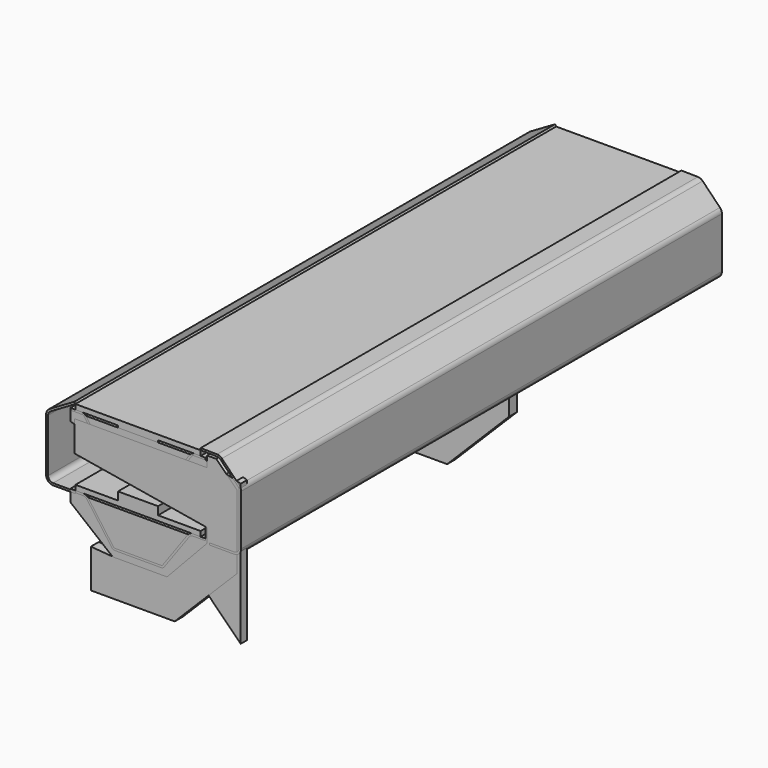
from build123d import *

# Parameters (mm, degrees)
F1_DEPTH  = 600
F2_W      = 40
F2_H      = 8
F3_DEPTH  = 600
F5_DEPTH  = 8
F7_DEPTH  = 600
F9_DEPTH  = 600
F11_DEPTH = 10
F14_DEPTH = 10
F16_DEPTH = 600
F18_DEPTH = 600


with BuildPart() as f1:
    # F0 (on Front) → F1 (new body)
    with BuildSketch(Plane.XZ):
        Polygon((62.5, -2.5), (62.5, 2.5), (-62.5, 2.5), (-62.5, -2.5), (-20, -2.5), (-20, -10.5), (20, -10.5), (20, -2.5), align=None)
    extrude(amount=F1_DEPTH)


with BuildPart() as f3:
    # F2 (on face) → F3 (new body)
    with BuildSketch(Plane.XZ.offset(600)):
        Polygon((62.5, -73.5), (62.5, -68.5), (20, -68.5), (-20, -68.5), (-62.5, -68.5), (-62.5, -73.5), align=None)
        with Locations((0, -64.5)):
            Rectangle(F2_W, F2_H)
    extrude(amount=-F3_DEPTH)


with BuildPart() as f5:
    # F4 (on face) → F5 (new body)
    with BuildSketch(Plane.XZ.offset(600)):
        Polygon((67.5, -4.5), (-67.5, -4.5), (-67.5, -14.5), (67.5, -50.6731409782), (67.5, -75.5), (-67.5, -75.5), (-67.5, -85.5), (17.6471862576, -154.6233937864), (60.0735931288, -112.1969869152), (102.5, -154.6233937864), (102.5, -13.8782217351), align=None)
    extrude(amount=-F5_DEPTH)


with BuildPart() as f7:
    # F6 (on face) → F7 (new body)
    with BuildSketch(Plane.XZ.offset(600)):
        with BuildLine():
            Line((-62.5, -73.5), (-67.5, -73.5))
            Line((-67.5, -73.5), (-67.5, -75.5))
            Line((-67.5, -75.5), (-54.5428234244, -75.5))
            ThreePointArc((-54.5428234244, -75.5), (-52.7235239113, -75.937676421), (-51.302356648, -77.1549253592))
            Line((-51.302356648, -77.1549253592), (-26.197643352, -111.8450746408))
            ThreePointArc((-26.197643352, -111.8450746408), (-24.7764760887, -113.062323579), (-22.9571765756, -113.5))
            Line((-22.9571765756, -113.5), (0, -113.5))
            Line((0, -113.5), (22.9571765756, -113.5))
            ThreePointArc((22.9571765756, -113.5), (24.7764760887, -113.062323579), (26.197643352, -111.8450746408))
            Line((26.197643352, -111.8450746408), (51.302356648, -77.1549253592))
            ThreePointArc((51.302356648, -77.1549253592), (52.7235239113, -75.937676421), (54.5428234244, -75.5))
            Line((54.5428234244, -75.5), (67.5, -75.5))
            Line((67.5, -75.5), (67.5, -73.5))
            Line((67.5, -73.5), (62.5, -73.5))
            Line((62.5, -73.5), (54.5428234244, -73.5))
            ThreePointArc((54.5428234244, -73.5), (51.8138741547, -74.1565146315), (49.6821232598, -75.9823880388))
            Line((49.6821232598, -75.9823880388), (23.9785882878, -111.5))
            Line((23.9785882878, -111.5), (0, -111.5))
            Line((0, -111.5), (-23.9785882878, -111.5))
            Line((-23.9785882878, -111.5), (-49.6821232598, -75.9823880388))
            ThreePointArc((-49.6821232598, -75.9823880388), (-51.8138741547, -74.1565146315), (-54.5428234244, -73.5))
            Line((-54.5428234244, -73.5), (-62.5, -73.5))
        make_face()
    extrude(amount=-F7_DEPTH)


with BuildPart() as f9:
    # F8 (on face) → F9 (new body)
    with BuildSketch(Plane.XZ.offset(600)):
        with BuildLine():
            Line((-56.0380938509, -2.5), (-67.5, -2.5))
            Line((-67.5, -2.5), (-67.5, -4.5))
            Line((-67.5, -4.5), (-54.5059762826, -4.5))
            Line((-54.5059762826, -4.5), (-39.9571153066, -24.6038806214))
            ThreePointArc((-39.9571153066, -24.6038806214), (-37.4700725958, -26.7340662633), (-34.2862984479, -27.5))
            Line((-34.2862984479, -27.5), (0, -27.5))
            Line((0, -27.5), (34.2862984479, -27.5))
            ThreePointArc((34.2862984479, -27.5), (37.4700725958, -26.7340662633), (39.9571153066, -24.6038806214))
            Line((39.9571153066, -24.6038806214), (54.5059762826, -4.5))
            Line((54.5059762826, -4.5), (67.5, -4.5))
            Line((67.5, -4.5), (67.5, -2.5))
            Line((67.5, -2.5), (56.0380938509, -2.5))
            ThreePointArc((56.0380938509, -2.5), (53.7639694596, -3.0470955262), (51.9875103804, -4.568656699))
            Line((51.9875103804, -4.568656699), (38.3368819184, -23.431343301))
            ThreePointArc((38.3368819184, -23.431343301), (36.5604228393, -24.9529044738), (34.2862984479, -25.5))
            Line((34.2862984479, -25.5), (0, -25.5))
            Line((0, -25.5), (-34.2862984479, -25.5))
            ThreePointArc((-34.2862984479, -25.5), (-36.5604228393, -24.9529044738), (-38.3368819184, -23.431343301))
            Line((-38.3368819184, -23.431343301), (-51.9875103804, -4.568656699))
            ThreePointArc((-51.9875103804, -4.568656699), (-53.7639694596, -3.0470955262), (-56.0380938509, -2.5))
        make_face()
    extrude(amount=-F9_DEPTH)


with BuildPart() as f11:
    # F10 (on face) → F11 (new body)
    with BuildSketch(Plane.XZ.offset(600)):
        Polygon((-63.5848790407, -41.2441077431), (69.0678358078, -63.3979870606), (69.0678358078, -77.0888211463), (28.9685007621, -119.7190688296), (-23.246947673, -119.7190688296), (-47.1364110708, -117.8128936633), (-47.1364110708, -156.352830978), (36.653718192, -156.352830978), (98.609762815, -94.3228504545), (98.609762815, -20.4974586044), (78.1123042107, 0), (68.9577640522, 0), (68.7347809, -10.709456478), (-63.5848790407, -10.709456478), align=None)
    extrude(amount=-F11_DEPTH)


with BuildPart() as f14:
    # F13 (on offset) → F14 (new body)
    with BuildSketch(Plane.XZ.offset(250)):
        Polygon((68.9577640522, 0), (68.7347809, -10.709456478), (-63.5848790407, -10.709456478), (-63.5848790407, -41.2441077431), (69.0678358078, -63.3979870606), (69.0678358078, -77.0888211463), (28.9685007621, -119.7190688296), (-23.246947673, -119.7190688296), (-47.1364110708, -117.8128936633), (-47.1364110708, -156.352830978), (36.653718192, -156.352830978), (98.609762815, -94.3228504545), (98.609762815, -20.4974586044), (78.1123042107, 0), align=None)
    extrude(amount=F14_DEPTH)


with BuildPart() as f16:
    # F15 (on face) → F16 (new body)
    with BuildSketch(Plane.XZ.offset(600)):
        with BuildLine():
            Line((62.5276616535, 4.4998086991), (62.5, 2.5))
            Line((62.5, 2.5), (78.8424637756, 2.2739485929))
            ThreePointArc((78.8424637756, 2.2739485929), (80.7472558461, 1.8682853958), (82.3525769484, 0.7656795642))
            Line((82.3525769484, 0.7656795642), (99.5723887191, -16.8882441871))
            ThreePointArc((99.5723887191, -16.8882441871), (100.624338128, -18.494866509), (100.9931214124, -20.379496906))
            Line((100.9931214124, -20.379496906), (100.9931214124, -70.9794420705))
            ThreePointArc((100.9931214124, -70.9794420705), (99.5286553184, -74.5149759764), (95.9931214124, -75.9794420705))
            Line((95.9931214124, -75.9794420705), (71.3432030433, -75.9794420705))
            Line((71.3432030433, -75.9794420705), (71.3432030433, -77.9794420705))
            Line((71.3432030433, -77.9794420705), (95.9931214124, -77.9794420705))
            ThreePointArc((95.9931214124, -77.9794420705), (100.9428688807, -75.9291895388), (102.9931214124, -70.9794420705))
            Line((102.9931214124, -70.9794420705), (102.9931214124, -20.379496906))
            ThreePointArc((102.9931214124, -20.379496906), (102.4768248142, -17.7410143502), (101.0040956417, -15.4917430995))
            Line((101.0040956417, -15.4917430995), (83.7842838711, 2.1621806518))
            ThreePointArc((83.7842838711, 2.1621806518), (81.5368343278, 3.705828816), (78.8701254291, 4.273757292))
            Line((78.8701254291, 4.273757292), (62.5276616535, 4.4998086991))
        make_face()
    extrude(amount=-F16_DEPTH)


with BuildPart() as f18:
    # F17 (on face) → F18 (new body)
    with BuildSketch(Plane.XZ.offset(600)):
        with BuildLine():
            Line((-87.3302515781, -11.9957112245), (-62.5, 2.5))
            Line((-62.5, 2.5), (-63.5083335414, 4.22721263))
            Line((-63.5083335414, 4.22721263), (-88.3385851196, -10.2684985945))
            ThreePointArc((-88.3385851196, -10.2684985945), (-90.8800096136, -12.8283570078), (-91.8094177246, -16.3137427996))
            Line((-91.8094177246, -16.3137427996), (-91.8094177246, -69.299223721))
            ThreePointArc((-91.8094177246, -69.299223721), (-89.7591651929, -74.2489711893), (-84.8094177246, -76.299223721))
            Line((-84.8094177246, -76.299223721), (-62.20677495, -76.299223721))
            Line((-62.20677495, -76.299223721), (-62.20677495, -74.299223721))
            Line((-62.20677495, -74.299223721), (-84.8094177246, -74.299223721))
            ThreePointArc((-84.8094177246, -74.299223721), (-88.3449516305, -72.834757627), (-89.8094177246, -69.299223721))
            Line((-89.8094177246, -69.299223721), (-89.8094177246, -16.3137427996))
            ThreePointArc((-89.8094177246, -16.3137427996), (-89.1455547882, -13.8241815197), (-87.3302515781, -11.9957112245))
        make_face()
    extrude(amount=-F18_DEPTH)


solid = Compound([f1.part, f3.part, f5.part, f7.part, f9.part, f11.part, f14.part, f16.part, f18.part])
